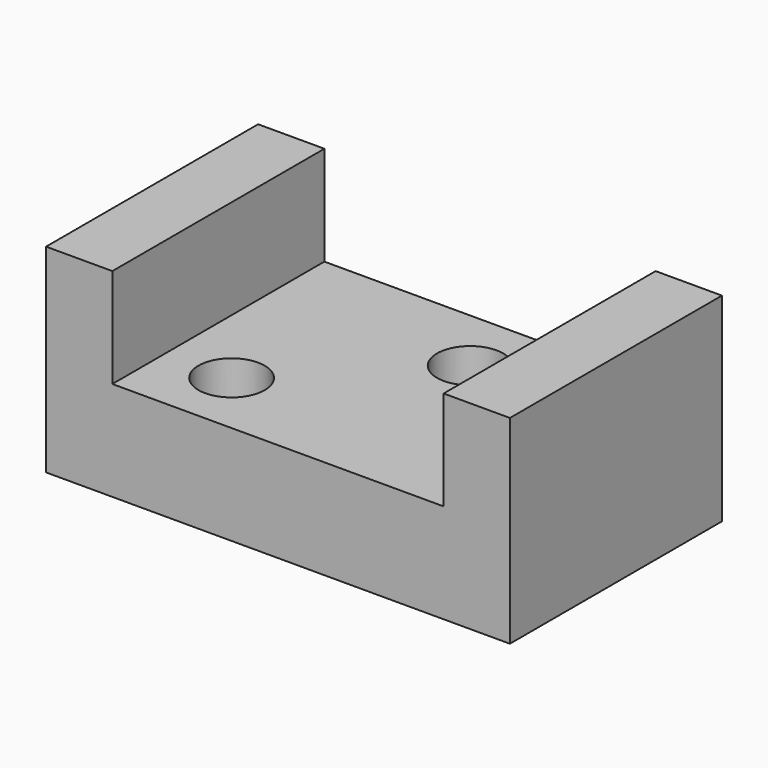
from build123d import *

# Parameters (mm, degrees)
F0_W     = 88.9
F0_H     = 38.1
F1_DEPTH = 50.8
F2_W     = 63.5
F2_H     = 19.05
F3_DEPTH = 50.801
F4_R     = 6.35
F5_DEPTH = 19.051
F6_R     = 6.35
F7_DEPTH = 19.051


with BuildPart() as f1:
    # F0 (on Front) → F1 (new body)
    with BuildSketch(Plane.XZ):
        Rectangle(F0_W, F0_H)
    extrude(amount=F1_DEPTH)

    # F2 (on face) → F3 (cut, through all)
    with BuildSketch(Plane.XZ.offset(50.8)):
        with Locations((0, 9.525)):
            Rectangle(F2_W, F2_H)
    extrude(amount=-F3_DEPTH, mode=Mode.SUBTRACT)

    # F4 (on face) → F5 (cut, through all)
    with BuildSketch(Plane.XY):
        with Locations((-19.05, -38.1)):
            Circle(F4_R)
    extrude(amount=-F5_DEPTH, mode=Mode.SUBTRACT)

    # F6 (on face) → F7 (cut, through all)
    with BuildSketch(Plane.XY):
        with Locations((6.35, -12.7)):
            Circle(F6_R)
    extrude(amount=-F7_DEPTH, mode=Mode.SUBTRACT)


solid = f1.part
